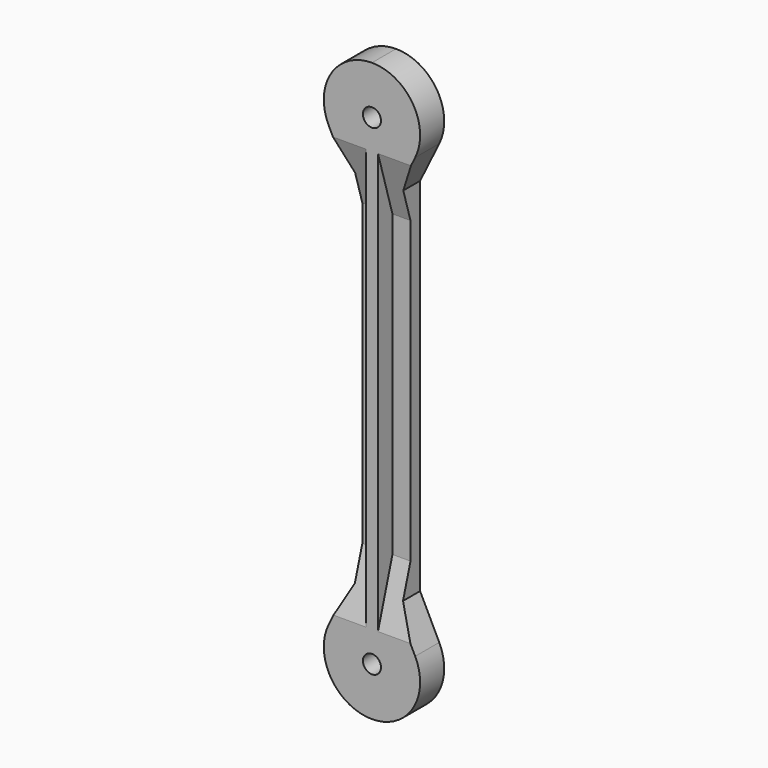
from build123d import *

# Parameters (mm, degrees)
F0_W      = 4
F0_H      = 5.1029750705
F1_DEPTH  = 5
F4_DEPTH  = 9
F6_W      = 44.082082808
F6_H      = 137.8899626434
F7_DEPTH  = 25
F9_R      = 1.5
F10_DEPTH = 25


with BuildPart() as f1:
    # F0 (on Front) → F1 (new body)
    with BuildSketch(Plane.XZ):
        with Locations((2, -12.5514875352)):
            Rectangle(F0_W, F0_H)
        with BuildLine():
            Line((-4, -10), (0, -10))
            Line((0, -10), (0, -8))
            ThreePointArc((0, -8), (-2.0705523608, -7.7274066103), (-4, -6.9282032303))
            Line((-4, -6.9282032303), (-4, -10))
        make_face()
        with Locations((-2, -12.5514875352)):
            Rectangle(F0_W, F0_H)
        with BuildLine():
            Line((0, -8), (0, -10))
            Line((0, -10), (4, -10))
            Line((4, -10), (4, -6.9282032303))
            ThreePointArc((4, -6.9282032303), (2.0705523608, -7.7274066103), (0, -8))
        make_face()
        with BuildLine():
            Line((4, -15.1029750705), (0, -15.1029750705))
            Line((0, -15.1029750705), (0, -65))
            Line((0, -65), (0, -70))
            Line((0, -70), (0, -72))
            ThreePointArc((0, -72), (2.0705523608, -72.2725933897), (4, -73.0717967697))
            Line((4, -73.0717967697), (4, -70))
            Line((4, -70), (4, -15.1029750705))
        make_face()
        with BuildLine():
            Line((0, -65), (0, -15.1029750705))
            Line((0, -15.1029750705), (-4, -15.1029750705))
            Line((-4, -15.1029750705), (-4, -70))
            Line((-4, -70), (-4, -73.0717967697))
            ThreePointArc((-4, -73.0717967697), (-2.0705523608, -72.2725933897), (0, -72))
            Line((0, -72), (0, -70))
            Line((0, -70), (0, -65))
        make_face()
        with BuildLine():
            ThreePointArc((-4, -6.9282032303), (-2.0705523608, -7.7274066103), (0, -8))
            ThreePointArc((0, -8), (2.0705523608, -7.7274066103), (4, -6.9282032303))
            ThreePointArc((4, -6.9282032303), (5.8428493863, -5.4645320979), (7.1800707248, -3.5279717101))
            ThreePointArc((7.1800707248, -3.5279717101), (7.792322048, -1.8109989235), (8, 0))
            ThreePointArc((8, 0), (-1.8109989235, 7.792322048), (-7.1800707248, -3.5279717101))
            ThreePointArc((-7.1800707248, -3.5279717101), (-5.8428493863, -5.4645320979), (-4, -6.9282032303))
        make_face()
        with BuildLine():
            Line((-7.1800707248, -3.5279717101), (-4, -10))
            Line((-4, -10), (-4, -6.9282032303))
            ThreePointArc((-4, -6.9282032303), (-5.8428493863, -5.4645320979), (-7.1800707248, -3.5279717101))
        make_face()
        with BuildLine():
            Line((4, -6.9282032303), (4, -10))
            Line((4, -10), (7.1800707248, -3.5279717101))
            ThreePointArc((7.1800707248, -3.5279717101), (5.8428493863, -5.4645320979), (4, -6.9282032303))
        make_face()
        with BuildLine():
            Line((-4, -73.0717967697), (-4, -70))
            Line((-4, -70), (-7.1800707248, -76.4720282899))
            ThreePointArc((-7.1800707248, -76.4720282899), (-5.8428493863, -74.5354679021), (-4, -73.0717967697))
        make_face()
        with BuildLine():
            Line((7.1800707248, -76.4720282899), (4, -70))
            Line((4, -70), (4, -73.0717967697))
            ThreePointArc((4, -73.0717967697), (5.8428493863, -74.5354679021), (7.1800707248, -76.4720282899))
        make_face()
        with BuildLine():
            ThreePointArc((4, -73.0717967697), (2.0705523608, -72.2725933897), (0, -72))
            ThreePointArc((0, -72), (-2.0705523608, -72.2725933897), (-4, -73.0717967697))
            ThreePointArc((-4, -73.0717967697), (-5.8428493863, -74.5354679021), (-7.1800707248, -76.4720282899))
            ThreePointArc((-7.1800707248, -76.4720282899), (-1.8109989235, -87.792322048), (8, -80))
            ThreePointArc((8, -80), (7.792322048, -78.1890010765), (7.1800707248, -76.4720282899))
            ThreePointArc((7.1800707248, -76.4720282899), (5.8428493863, -74.5354679021), (4, -73.0717967697))
        make_face()
    extrude(amount=F1_DEPTH)

    # F3 (on offset) → F4 (cut)
    with BuildSketch(Plane.YZ.offset(-10)):
        Polygon((-2, -64.81321129), (-2, -15), (-5.3923702799, -3.64174202), (-5.3923702799, -76.1714303355), align=None)
    extrude(amount=F4_DEPTH, mode=Mode.SUBTRACT)

    # F6 (on Front) → F7 (cut, symmetric)
    with BuildSketch(Plane.XZ):
        with Locations((22.041041404, -24.6477220207)):
            Rectangle(F6_W, F6_H)
    extrude(amount=F7_DEPTH, both=True, mode=Mode.SUBTRACT)

    # F8: F1 across plane


with BuildPart() as f1_1:
    add(f1.part)
    add(f1.part.mirror(Plane.YZ))

    # F9 (on face) → F10 (cut)
    with BuildSketch(Plane.XZ.offset(5)):
        Circle(F9_R)
        with Locations((0, -79.9452960491)):
            Circle(F9_R)
    extrude(amount=-F10_DEPTH, mode=Mode.SUBTRACT)


solid = f1_1.part
